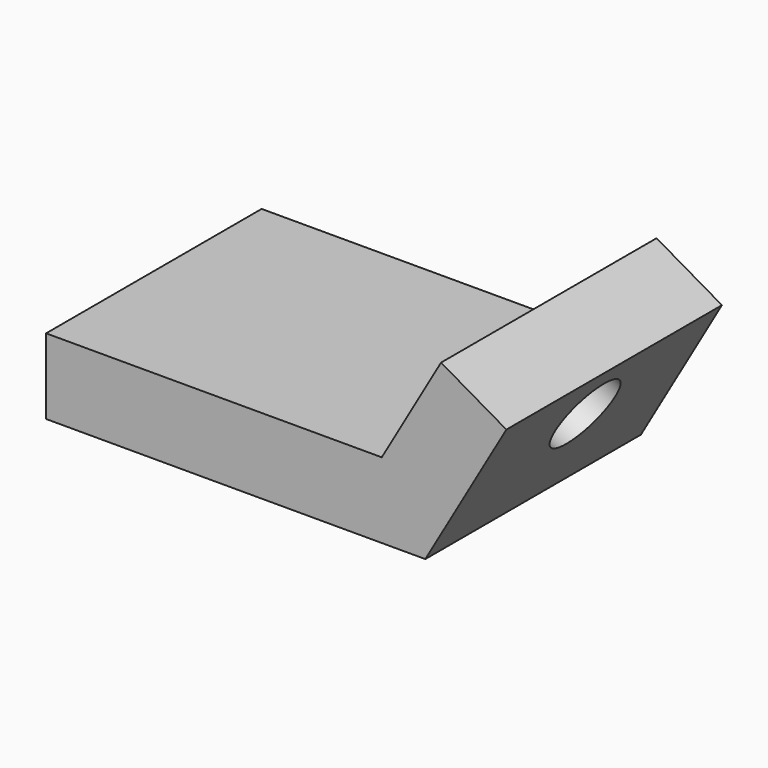
from build123d import *

# Parameters (mm, degrees)
F1_DEPTH = 50
F2_R     = 7
F3_DEPTH = 27.0272794416


with BuildPart() as f1:
    # F0 (on Front) → F1 (new body)
    with BuildSketch(Plane.XZ):
        Polygon((14.7925389971, 14.565159461), (-47.5028994737, 14.565159461), (-47.5028994737, 0.565159461), (22.8754427657, 0.565159461), (37.91689465, 26.6177183442), (25.7925389971, 33.6177183442), align=None)
    extrude(amount=F1_DEPTH)

    # F2 (on face) → F3 (cut, through all)
    with BuildSketch(Plane(origin=(4.7875051961, 0, -2.7640674137), x_dir=(0, -1, 0), z_dir=(-0.8660254038, 0, 0.5))):
        with Locations((25, 31.2347654253)):
            Circle(F2_R)
    extrude(amount=-F3_DEPTH, mode=Mode.SUBTRACT)


solid = f1.part
